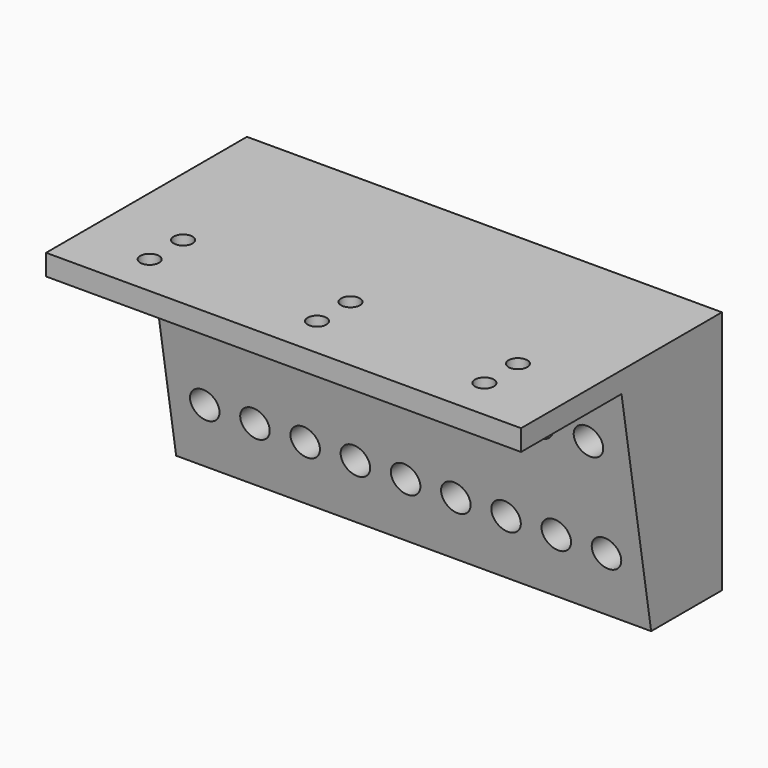
from build123d import *

# Parameters (mm, degrees)
F1_DEPTH = 25
F2_W     = 113.5
F2_H     = 53.5
F3_DEPTH = 5
F5_DEPTH = 133.9
F6_W     = 113.5
F6_H     = 60
F7_DEPTH = 5
F9_DEPTH = 25


with BuildPart() as f1:
    # F0 (on Front) → F1 (new body)
    with BuildSketch(Plane.XZ):
        with BuildLine():
            Line((30.7684078276, 51.75), (-82.7315921724, 51.75))
            Line((-82.7315921724, 51.75), (-82.7315921724, 37.7107225358))
            Line((-82.7315921724, 37.7107225358), (-77.4815921724, 37.7107225358))
            ThreePointArc((-77.4815921724, 37.7107225358), (-73.9815921724, 41.2107225358), (-70.4815921724, 37.7107225358))
            Line((-70.4815921724, 37.7107225358), (-65.4815921724, 37.7107225358))
            ThreePointArc((-65.4815921724, 37.7107225358), (-61.9815921724, 41.2107225358), (-58.4815921724, 37.7107225358))
            Line((-58.4815921724, 37.7107225358), (-54.4815921724, 37.7107225358))
            ThreePointArc((-54.4815921724, 37.7107225358), (-50.9815921724, 41.2107225358), (-47.4815921724, 37.7107225358))
            Line((-47.4815921724, 37.7107225358), (-42.4815921724, 37.7107225358))
            ThreePointArc((-42.4815921724, 37.7107225358), (-38.9815921724, 41.2107225358), (-35.4815921724, 37.7107225358))
            Line((-35.4815921724, 37.7107225358), (-30.4815921724, 37.7107225358))
            ThreePointArc((-30.4815921724, 37.7107225358), (-26.9815921724, 41.2107225358), (-23.4815921724, 37.7107225358))
            Line((-23.4815921724, 37.7107225358), (-18.4815921724, 37.7107225358))
            ThreePointArc((-18.4815921724, 37.7107225358), (-14.9815921724, 41.2107225358), (-11.4815921724, 37.7107225358))
            Line((-11.4815921724, 37.7107225358), (-6.4815921724, 37.7107225358))
            ThreePointArc((-6.4815921724, 37.7107225358), (-2.9815921724, 41.2107225358), (0.5184078276, 37.7107225358))
            Line((0.5184078276, 37.7107225358), (5.5184078276, 37.7107225358))
            ThreePointArc((5.5184078276, 37.7107225358), (9.0184078276, 41.2107225358), (12.5184078276, 37.7107225358))
            Line((12.5184078276, 37.7107225358), (17.5184078276, 37.7107225358))
            ThreePointArc((17.5184078276, 37.7107225358), (21.0184078276, 41.2107225358), (24.5184078276, 37.7107225358))
            Line((24.5184078276, 37.7107225358), (30.7684078276, 37.7107225358))
            Line((30.7684078276, 37.7107225358), (30.7684078276, 51.75))
        make_face()
        with BuildLine():
            Line((-77.4815921724, 12.7484267578), (-82.7315921724, 12.7484267578))
            Line((-82.7315921724, 12.7484267578), (-82.7315921724, -1.75))
            Line((-82.7315921724, -1.75), (30.7684078276, -1.75))
            Line((30.7684078276, -1.75), (30.7684078276, 12.7484267578))
            Line((30.7684078276, 12.7484267578), (25.5184078276, 12.7484267578))
            ThreePointArc((25.5184078276, 12.7484267578), (22.0184078276, 9.2484267578), (18.5184078276, 12.7484267578))
            Line((18.5184078276, 12.7484267578), (13.5184078276, 12.7484267578))
            ThreePointArc((13.5184078276, 12.7484267578), (10.0184078276, 9.2484267578), (6.5184078276, 12.7484267578))
            Line((6.5184078276, 12.7484267578), (1.5184078276, 12.7484267578))
            ThreePointArc((1.5184078276, 12.7484267578), (-1.9815921724, 9.2484267578), (-5.4815921724, 12.7484267578))
            Line((-5.4815921724, 12.7484267578), (-10.4815921724, 12.7484267578))
            ThreePointArc((-10.4815921724, 12.7484267578), (-13.9815921724, 9.2484267578), (-17.4815921724, 12.7484267578))
            Line((-17.4815921724, 12.7484267578), (-22.4815921724, 12.7484267578))
            ThreePointArc((-22.4815921724, 12.7484267578), (-25.9815921724, 9.2484267578), (-29.4815921724, 12.7484267578))
            Line((-29.4815921724, 12.7484267578), (-34.4815921724, 12.7484267578))
            ThreePointArc((-34.4815921724, 12.7484267578), (-37.9815921724, 9.2484267578), (-41.4815921724, 12.7484267578))
            Line((-41.4815921724, 12.7484267578), (-46.4815921724, 12.7484267578))
            ThreePointArc((-46.4815921724, 12.7484267578), (-49.9815921724, 9.2484267578), (-53.4815921724, 12.7484267578))
            Line((-53.4815921724, 12.7484267578), (-58.4815921724, 12.7484267578))
            ThreePointArc((-58.4815921724, 12.7484267578), (-61.9815921724, 9.2484267578), (-65.4815921724, 12.7484267578))
            Line((-65.4815921724, 12.7484267578), (-70.4815921724, 12.7484267578))
            ThreePointArc((-70.4815921724, 12.7484267578), (-73.9815921724, 9.2484267578), (-77.4815921724, 12.7484267578))
        make_face()
        with BuildLine():
            Line((-77.4815921724, 37.7107225358), (-82.7315921724, 37.7107225358))
            Line((-82.7315921724, 37.7107225358), (-82.7315921724, 12.7484267578))
            Line((-82.7315921724, 12.7484267578), (-77.4815921724, 12.7484267578))
            ThreePointArc((-77.4815921724, 12.7484267578), (-73.9815921724, 16.2484267578), (-70.4815921724, 12.7484267578))
            Line((-70.4815921724, 12.7484267578), (-65.4815921724, 12.7484267578))
            ThreePointArc((-65.4815921724, 12.7484267578), (-61.9815921724, 16.2484267578), (-58.4815921724, 12.7484267578))
            Line((-58.4815921724, 12.7484267578), (-53.4815921724, 12.7484267578))
            ThreePointArc((-53.4815921724, 12.7484267578), (-49.9815921724, 16.2484267578), (-46.4815921724, 12.7484267578))
            Line((-46.4815921724, 12.7484267578), (-41.4815921724, 12.7484267578))
            ThreePointArc((-41.4815921724, 12.7484267578), (-37.9815921724, 16.2484267578), (-34.4815921724, 12.7484267578))
            Line((-34.4815921724, 12.7484267578), (-29.4815921724, 12.7484267578))
            ThreePointArc((-29.4815921724, 12.7484267578), (-25.9815921724, 16.2484267578), (-22.4815921724, 12.7484267578))
            Line((-22.4815921724, 12.7484267578), (-17.4815921724, 12.7484267578))
            ThreePointArc((-17.4815921724, 12.7484267578), (-13.9815921724, 16.2484267578), (-10.4815921724, 12.7484267578))
            Line((-10.4815921724, 12.7484267578), (-5.4815921724, 12.7484267578))
            ThreePointArc((-5.4815921724, 12.7484267578), (-1.9815921724, 16.2484267578), (1.5184078276, 12.7484267578))
            Line((1.5184078276, 12.7484267578), (6.5184078276, 12.7484267578))
            ThreePointArc((6.5184078276, 12.7484267578), (10.0184078276, 16.2484267578), (13.5184078276, 12.7484267578))
            Line((13.5184078276, 12.7484267578), (18.5184078276, 12.7484267578))
            ThreePointArc((18.5184078276, 12.7484267578), (22.0184078276, 16.2484267578), (25.5184078276, 12.7484267578))
            Line((25.5184078276, 12.7484267578), (30.7684078276, 12.7484267578))
            Line((30.7684078276, 12.7484267578), (30.7684078276, 37.7107225358))
            Line((30.7684078276, 37.7107225358), (24.5184078276, 37.7107225358))
            ThreePointArc((24.5184078276, 37.7107225358), (21.0184078276, 34.2107225358), (17.5184078276, 37.7107225358))
            Line((17.5184078276, 37.7107225358), (12.5184078276, 37.7107225358))
            ThreePointArc((12.5184078276, 37.7107225358), (9.0184078276, 34.2107225358), (5.5184078276, 37.7107225358))
            Line((5.5184078276, 37.7107225358), (0.5184078276, 37.7107225358))
            ThreePointArc((0.5184078276, 37.7107225358), (-2.9815921724, 34.2107225358), (-6.4815921724, 37.7107225358))
            Line((-6.4815921724, 37.7107225358), (-11.4815921724, 37.7107225358))
            ThreePointArc((-11.4815921724, 37.7107225358), (-14.9815921724, 34.2107225358), (-18.4815921724, 37.7107225358))
            Line((-18.4815921724, 37.7107225358), (-23.4815921724, 37.7107225358))
            ThreePointArc((-23.4815921724, 37.7107225358), (-26.9815921724, 34.2107225358), (-30.4815921724, 37.7107225358))
            Line((-30.4815921724, 37.7107225358), (-35.4815921724, 37.7107225358))
            ThreePointArc((-35.4815921724, 37.7107225358), (-38.9815921724, 34.2107225358), (-42.4815921724, 37.7107225358))
            Line((-42.4815921724, 37.7107225358), (-47.4815921724, 37.7107225358))
            ThreePointArc((-47.4815921724, 37.7107225358), (-50.9815921724, 34.2107225358), (-54.4815921724, 37.7107225358))
            Line((-54.4815921724, 37.7107225358), (-58.4815921724, 37.7107225358))
            ThreePointArc((-58.4815921724, 37.7107225358), (-61.9815921724, 34.2107225358), (-65.4815921724, 37.7107225358))
            Line((-65.4815921724, 37.7107225358), (-70.4815921724, 37.7107225358))
            ThreePointArc((-70.4815921724, 37.7107225358), (-73.9815921724, 34.2107225358), (-77.4815921724, 37.7107225358))
        make_face()
    extrude(amount=F1_DEPTH)

    # F2 (on face) → F3 (join)
    with BuildSketch(Plane(origin=(0, 0, 0), x_dir=(-1, 0, 0), z_dir=(0, 1, 0))):
        with Locations((25.9815921724, 25)):
            Rectangle(F2_W, F2_H)
    extrude(amount=F3_DEPTH)

    # F4 (on face) → F5 (cut)
    with BuildSketch(Plane(origin=(-82.7315921724, 0, 0), x_dir=(0, -1, 0), z_dir=(-1, 0, 0))):
        Polygon((25, -1.75), (25, 51.75), (16.1387622356, -1.75), align=None)
    extrude(amount=-F5_DEPTH, mode=Mode.SUBTRACT)

    # F6 (on face) → F7 (join)
    with BuildSketch(Plane.XY.offset(51.75)):
        with Locations((-25.9815921724, -25)):
            Rectangle(F6_W, F6_H)
    extrude(amount=F7_DEPTH)

    # F8 (on face) → F9 (cut)
    with BuildSketch(Plane(origin=(0, 0, 51.75), x_dir=(1, 0, 0), z_dir=(0, 0, -1))):
        with BuildLine():
            ThreePointArc((-63.7315921724, 45), (-65.9815921724, 47.25), (-68.2315921724, 45))
            Line((-68.2315921724, 45), (-63.7315921724, 45))
        make_face()
        with BuildLine():
            ThreePointArc((16.2684078276, 45), (14.0184078276, 47.25), (11.7684078276, 45))
            Line((11.7684078276, 45), (16.2684078276, 45))
        make_face()
        with BuildLine():
            Line((16.2684078276, 45), (11.7684078276, 45))
            ThreePointArc((11.7684078276, 45), (14.0184078276, 42.75), (16.2684078276, 45))
        make_face()
        with BuildLine():
            ThreePointArc((-23.7315921724, 45), (-25.9815921724, 47.25), (-28.2315921724, 45))
            Line((-28.2315921724, 45), (-23.7315921724, 45))
        make_face()
        with BuildLine():
            Line((-23.7315921724, 45), (-28.2315921724, 45))
            ThreePointArc((-28.2315921724, 45), (-25.9815921724, 42.75), (-23.7315921724, 45))
        make_face()
        with BuildLine():
            Line((-63.7315921724, 45), (-68.2315921724, 45))
            ThreePointArc((-68.2315921724, 45), (-65.9815921724, 42.75), (-63.7315921724, 45))
        make_face()
        with BuildLine():
            ThreePointArc((-63.7315921724, 35), (-65.9815921724, 37.25), (-68.2315921724, 35))
            Line((-68.2315921724, 35), (-63.7315921724, 35))
        make_face()
        with BuildLine():
            ThreePointArc((16.2684078276, 35), (14.0184078276, 37.25), (11.7684078276, 35))
            Line((11.7684078276, 35), (16.2684078276, 35))
        make_face()
        with BuildLine():
            Line((16.2684078276, 35), (11.7684078276, 35))
            ThreePointArc((11.7684078276, 35), (14.0184078276, 32.75), (16.2684078276, 35))
        make_face()
        with BuildLine():
            ThreePointArc((-23.7315921724, 35), (-25.9815921724, 37.25), (-28.2315921724, 35))
            Line((-28.2315921724, 35), (-23.7315921724, 35))
        make_face()
        with BuildLine():
            Line((-23.7315921724, 35), (-28.2315921724, 35))
            ThreePointArc((-28.2315921724, 35), (-25.9815921724, 32.75), (-23.7315921724, 35))
        make_face()
        with BuildLine():
            Line((-63.7315921724, 35), (-68.2315921724, 35))
            ThreePointArc((-68.2315921724, 35), (-65.9815921724, 32.75), (-63.7315921724, 35))
        make_face()
    extrude(amount=-F9_DEPTH, mode=Mode.SUBTRACT)


solid = f1.part
